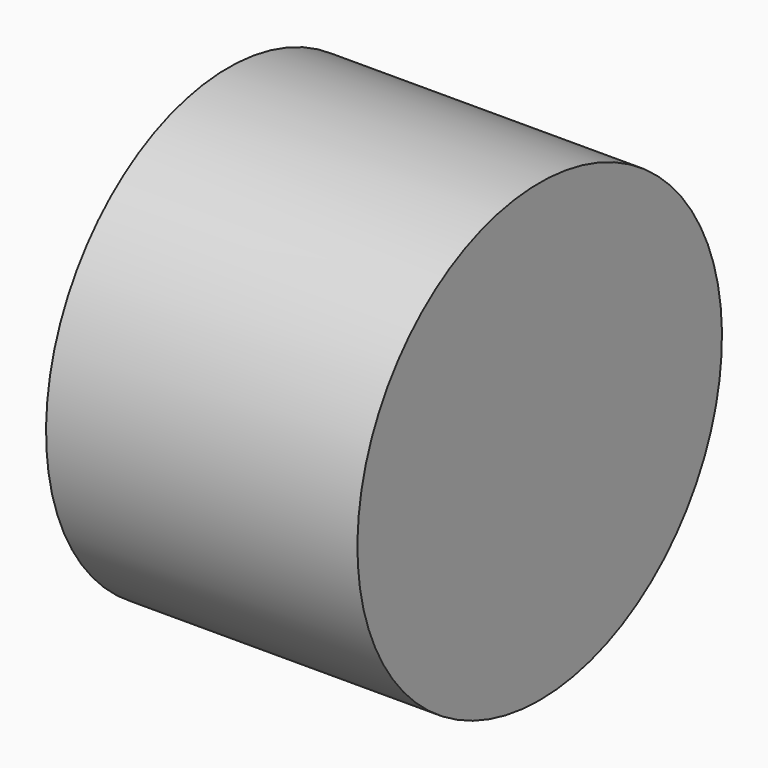
from build123d import *

# Parameters (mm, degrees)
CYLINDER071_R     = 1.25
CYLINDER071_DEPTH = 5
CYLINDER070_R     = 3
CYLINDER070_DEPTH = 4.1


with BuildPart() as b_w013:
    # Cylinder071 → Cylinder071 (new body)
    with BuildSketch(Plane(origin=(2, 6, 26), x_dir=(0, 0, 1), z_dir=(-1, 0, 0))):
        Circle(CYLINDER071_R)
    extrude(amount=CYLINDER071_DEPTH)


with BuildPart() as cut036:
    # Cylinder070 → Cylinder070 (new body)
    with BuildSketch(Plane(origin=(-1, 6, 26), x_dir=(0, 0, -1), z_dir=(1, 0, 0))):
        Circle(CYLINDER070_R)
    extrude(amount=CYLINDER070_DEPTH)

    # Cut036: cut B_W013
    add(b_w013.part, mode=Mode.SUBTRACT)


solid = cut036.part
